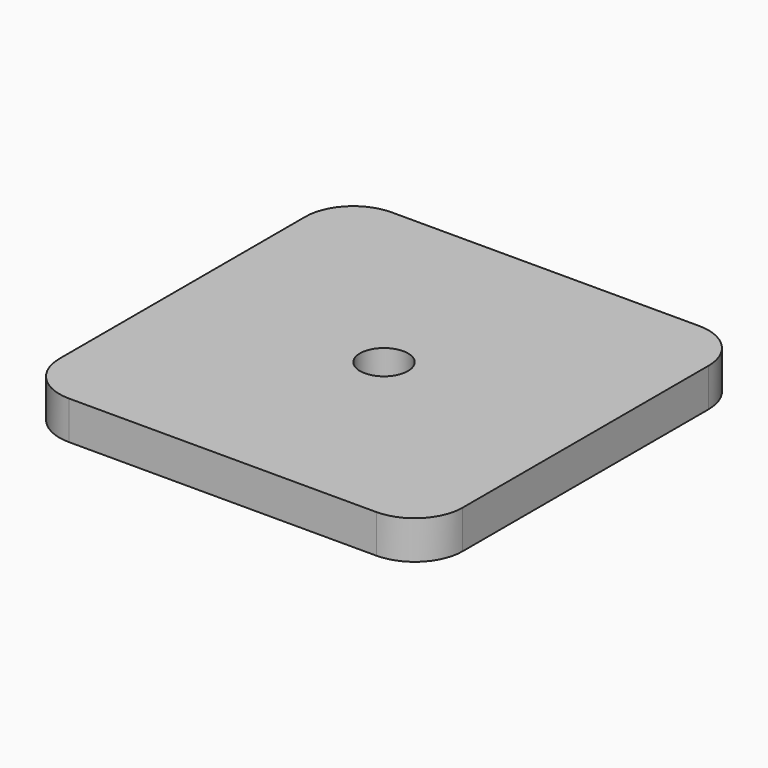
from build123d import *

# Parameters (mm, degrees)
F0_W     = 42
F0_H     = 42
F1_DEPTH = 4
F3_R     = 5
F4_R     = 2.5
F5_DEPTH = 25


with BuildPart() as f1:
    # F0 (on Top) → F1 (new body)
    with BuildSketch(Plane.XY):
        Rectangle(F0_W, F0_H)
    extrude(amount=F1_DEPTH)

    # F3
    f3_edges = [f1.edges().sort_by_distance(p)[0] for p in [
        (-21, 21, 2),
        (-21, -21, 2),
        (21, -21, 2),
        (21, 21, 2),
    ]]
    fillet(f3_edges, radius=F3_R)

    # F4 (on face) → F5 (cut)
    with BuildSketch(Plane.XY.offset(4)):
        Circle(F4_R)
    extrude(amount=-F5_DEPTH, mode=Mode.SUBTRACT)


solid = f1.part
